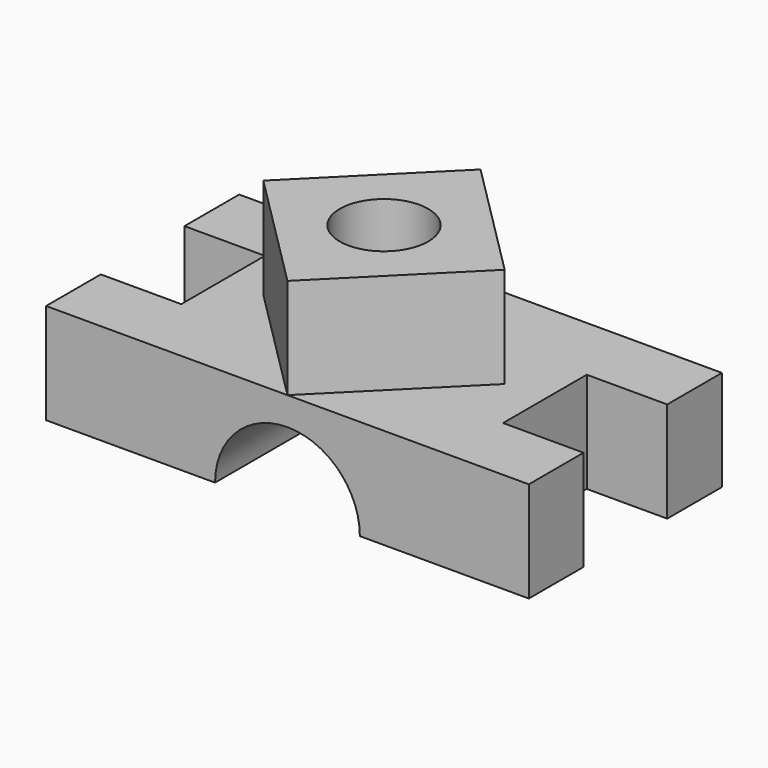
from build123d import *

# Parameters (mm, degrees)
F0_W     = 1200
F0_H     = 600
F1_DEPTH = 250
F2_W     = 200
F2_H     = 260
F3_DEPTH = 250.001
F5_DEPTH = 250
F6_R     = 110
F7_DEPTH = 500.001
F9_DEPTH = 600.001


with BuildPart() as f1:
    # F0 (on Top) → F1 (new body)
    with BuildSketch(Plane.XY):
        Rectangle(F0_W, F0_H)
    extrude(amount=F1_DEPTH)

    # F2 (on face) → F3 (cut, through all)
    with BuildSketch(Plane.XY.offset(250)):
        with Locations((-700, 0)):
            Rectangle(F2_W, F2_H)
        with Locations((-500, 0)):
            Rectangle(F2_W, F2_H)
        with Locations((500, 0)):
            Rectangle(F2_W, F2_H)
    extrude(amount=-F3_DEPTH, mode=Mode.SUBTRACT)

    # F4 (on face) → F5 (join)
    with BuildSketch(Plane.XY.offset(250)):
        Polygon((300, 0), (0, 300), (-300, 0), (0, -300), align=None)
    extrude(amount=F5_DEPTH)

    # F6 (on face) → F7 (cut, through all)
    with BuildSketch(Plane.XY.offset(500)):
        Circle(F6_R)
    extrude(amount=-F7_DEPTH, mode=Mode.SUBTRACT)

    # F8 (on face) → F9 (cut, through all)
    with BuildSketch(Plane.XZ.offset(300)):
        with BuildLine():
            Line((-180, 0), (180, 0))
            ThreePointArc((180, 0), (0, 180), (-180, 0))
        make_face()
    extrude(amount=-F9_DEPTH, mode=Mode.SUBTRACT)


solid = f1.part
